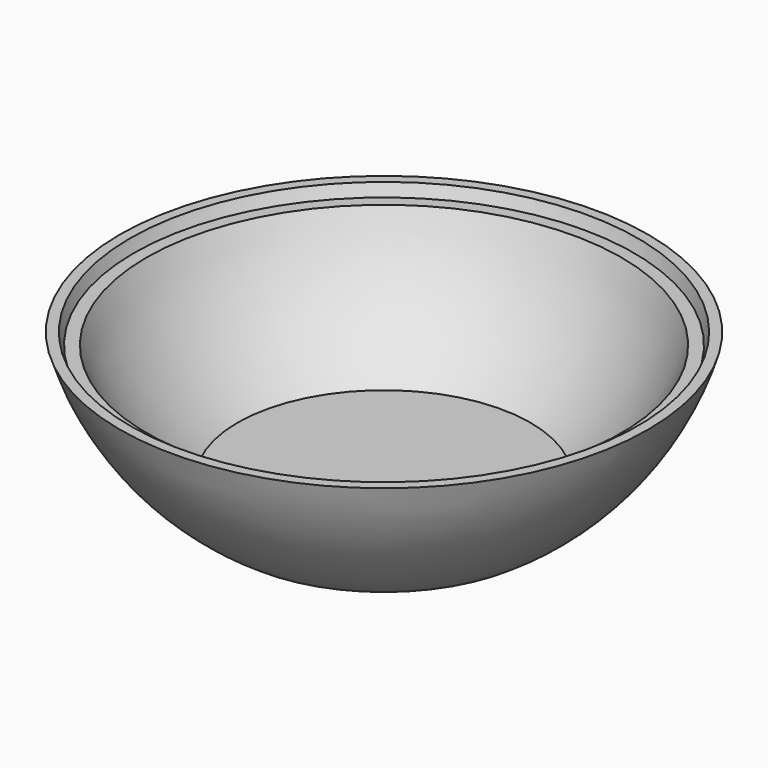
from build123d import *


with BuildPart() as f1:
    # F0 (on Front) → F1 (revolve)
    with BuildSketch(Plane.XZ):
        with BuildLine():
            Line((-69.560765, -22.225), (-72.355568, -22.225))
            ThreePointArc((-72.355568, -22.225), (-60.409766, -45.606348), (-41.19501, -63.5))
            Line((-41.19501, -63.5), (0, -63.5))
            Line((0, -63.5), (0, -57.149999))
            Line((0, -57.149999), (-40.160928, -57.149999))
            ThreePointArc((-40.160928, -57.149999), (-54.957298, -43.11285), (-65.068137, -25.4))
            Line((-65.068137, -25.4), (-68.465251, -25.4))
            ThreePointArc((-68.465251, -25.4), (-69.031264, -23.818799), (-69.560765, -22.225))
        make_face()
    revolve(axis=Axis((0, 0, -60.324999), (0, 0, -1)))


solid = f1.part
